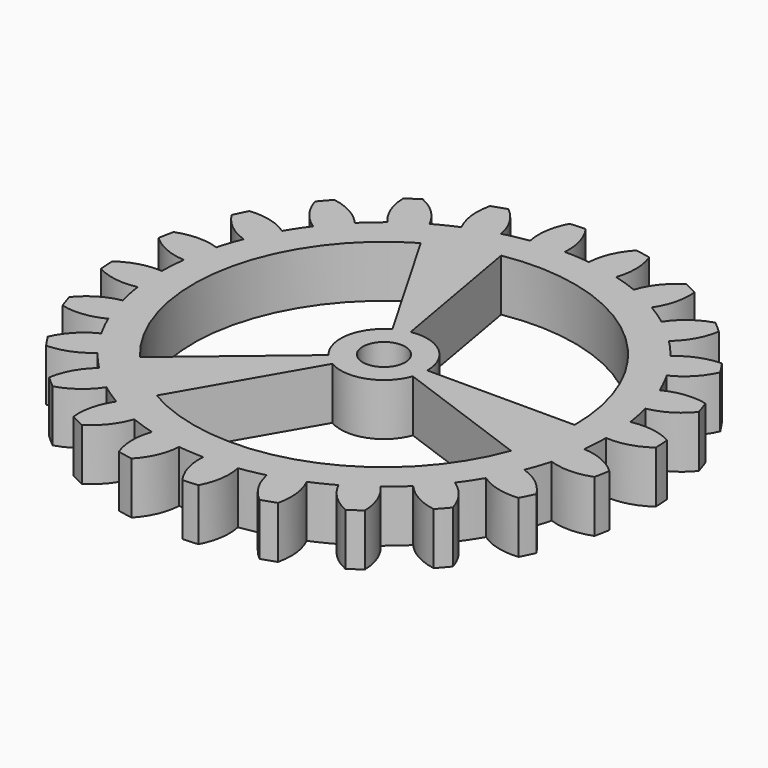
from build123d import *

# Parameters (mm, degrees)
F0_R     = 2.45
F1_DEPTH = 6
F3_DEPTH = 25


with BuildPart() as f1:
    # F0 (on Top) → F1 (new body)
    with BuildSketch(Plane.XY):
        with BuildLine():
            ThreePointArc((3.150149, 25.614713), (1.687904, 25.752436), (0.220192, 25.806753))
            ThreePointArc((0.220192, 25.806753), (-0.029862, 28.261847), (-1.112011, 30.479722))
            ThreePointArc((-1.112011, 30.479722), (-1.994795, 30.434697), (-2.875905, 30.36411))
            ThreePointArc((-2.875905, 30.36411), (-3.659305, 28.023961), (-3.586766, 25.557232))
            ThreePointArc((-3.586766, 25.557232), (-5.034831, 25.311805), (-6.46659, 24.984399))
            ThreePointArc((-6.46659, 24.984399), (-7.343549, 27.291119), (-8.962852, 29.153341))
            ThreePointArc((-8.962852, 29.153341), (-9.803904, 28.881369), (-10.636721, 28.585139))
            ThreePointArc((-10.636721, 28.585139), (-10.787752, 26.12197), (-10.079248, 23.758067))
            ThreePointArc((-10.079248, 23.758067), (-11.41445, 23.146216), (-12.712684, 22.4594))
            ThreePointArc((-12.712684, 22.4594), (-14.156785, 24.460546), (-16.20289, 25.840208))
            ThreePointArc((-16.20289, 25.840208), (-16.944892, 25.359823), (-17.672661, 24.858138))
            ThreePointArc((-17.672661, 24.858138), (-17.181031, 22.43981), (-15.884846, 20.339829))
            ThreePointArc((-15.884846, 20.339829), (-17.016194, 19.40325), (-18.092431, 18.403829))
            ThreePointArc((-18.092431, 18.403829), (-20.005259, 19.963028), (-22.338728, 20.766108))
            ThreePointArc((-22.338728, 20.766108), (-22.931114, 20.110047), (-23.50424, 19.437096))
            ThreePointArc((-23.50424, 19.437096), (-22.403452, 17.228414), (-20.607918, 15.535466))
            ThreePointArc((-20.607918, 15.535466), (-21.458312, 14.337986), (-22.239208, 13.094069))
            ThreePointArc((-22.239208, 13.094069), (-24.490408, 14.105062), (-26.952219, 14.276831))
            ThreePointArc((-26.952219, 14.276831), (-27.354619, 13.489805), (-27.734043, 12.691448))
            ThreePointArc((-27.734043, 12.691448), (-26.099114, 10.84293), (-23.926595, 9.672386))
            ThreePointArc((-23.926595, 9.672386), (-24.438081, 8.295611), (-24.870419, 6.891968))
            ThreePointArc((-24.870419, 6.891968), (-27.306577, 7.28586), (-29.72896, 6.814613))
            ThreePointArc((-29.72896, 6.814613), (-29.913951, 5.950255), (-30.073817, 5.080899))
            ThreePointArc((-30.073817, 5.080899), (-28.016165, 3.718518), (-25.614713, 3.150149))
            ThreePointArc((-25.614713, 3.150149), (-25.752436, 1.687904), (-25.806753, 0.220192))
            ThreePointArc((-25.806753, 0.220192), (-28.261847, -0.029862), (-30.479722, -1.112011))
            ThreePointArc((-30.479722, -1.112011), (-30.434697, -1.994795), (-30.36411, -2.875905))
            ThreePointArc((-30.36411, -2.875905), (-28.023961, -3.659305), (-25.557232, -3.586766))
            ThreePointArc((-25.557232, -3.586766), (-25.311805, -5.034831), (-24.984399, -6.46659))
            ThreePointArc((-24.984399, -6.46659), (-27.291119, -7.343549), (-29.153341, -8.962852))
            ThreePointArc((-29.153341, -8.962852), (-28.881369, -9.803904), (-28.585139, -10.636721))
            ThreePointArc((-28.585139, -10.636721), (-26.12197, -10.787752), (-23.758067, -10.079248))
            ThreePointArc((-23.758067, -10.079248), (-23.146216, -11.41445), (-22.4594, -12.712684))
            ThreePointArc((-22.4594, -12.712684), (-24.460546, -14.156785), (-25.840208, -16.20289))
            ThreePointArc((-25.840208, -16.20289), (-25.359823, -16.944892), (-24.858138, -17.672661))
            ThreePointArc((-24.858138, -17.672661), (-22.43981, -17.181031), (-20.339829, -15.884846))
            ThreePointArc((-20.339829, -15.884846), (-19.40325, -17.016194), (-18.403829, -18.092431))
            ThreePointArc((-18.403829, -18.092431), (-19.963028, -20.005259), (-20.766108, -22.338728))
            ThreePointArc((-20.766108, -22.338728), (-20.110047, -22.931114), (-19.437096, -23.50424))
            ThreePointArc((-19.437096, -23.50424), (-17.228414, -22.403452), (-15.535466, -20.607918))
            ThreePointArc((-15.535466, -20.607918), (-14.337986, -21.458312), (-13.094069, -22.239208))
            ThreePointArc((-13.094069, -22.239208), (-14.105062, -24.490408), (-14.276831, -26.952219))
            ThreePointArc((-14.276831, -26.952219), (-13.489805, -27.354619), (-12.691448, -27.734043))
            ThreePointArc((-12.691448, -27.734043), (-10.84293, -26.099114), (-9.672386, -23.926595))
            ThreePointArc((-9.672386, -23.926595), (-8.295611, -24.438081), (-6.891968, -24.870419))
            ThreePointArc((-6.891968, -24.870419), (-7.28586, -27.306577), (-6.814613, -29.72896))
            ThreePointArc((-6.814613, -29.72896), (-5.950255, -29.913951), (-5.080899, -30.073817))
            ThreePointArc((-5.080899, -30.073817), (-3.718518, -28.016165), (-3.150149, -25.614713))
            ThreePointArc((-3.150149, -25.614713), (-1.687904, -25.752436), (-0.220192, -25.806753))
            ThreePointArc((-0.220192, -25.806753), (0.029862, -28.261847), (1.112011, -30.479722))
            ThreePointArc((1.112011, -30.479722), (1.994795, -30.434697), (2.875905, -30.36411))
            ThreePointArc((2.875905, -30.36411), (3.659305, -28.023961), (3.586766, -25.557232))
            ThreePointArc((3.586766, -25.557232), (5.034831, -25.311805), (6.46659, -24.984399))
            ThreePointArc((6.46659, -24.984399), (7.343549, -27.291119), (8.962852, -29.153341))
            ThreePointArc((8.962852, -29.153341), (9.803904, -28.881369), (10.636721, -28.585139))
            ThreePointArc((10.636721, -28.585139), (10.787752, -26.12197), (10.079248, -23.758067))
            ThreePointArc((10.079248, -23.758067), (11.41445, -23.146216), (12.712684, -22.4594))
            ThreePointArc((12.712684, -22.4594), (14.156785, -24.460546), (16.20289, -25.840208))
            ThreePointArc((16.20289, -25.840208), (16.944892, -25.359823), (17.672661, -24.858138))
            ThreePointArc((17.672661, -24.858138), (17.181031, -22.43981), (15.884846, -20.339829))
            ThreePointArc((15.884846, -20.339829), (17.016194, -19.40325), (18.092431, -18.403829))
            ThreePointArc((18.092431, -18.403829), (20.005259, -19.963028), (22.338728, -20.766108))
            ThreePointArc((22.338728, -20.766108), (22.931114, -20.110047), (23.50424, -19.437096))
            ThreePointArc((23.50424, -19.437096), (22.403452, -17.228414), (20.607918, -15.535466))
            ThreePointArc((20.607918, -15.535466), (21.458312, -14.337986), (22.239208, -13.094069))
            ThreePointArc((22.239208, -13.094069), (24.490408, -14.105062), (26.952219, -14.276831))
            ThreePointArc((26.952219, -14.276831), (27.354619, -13.489805), (27.734043, -12.691448))
            ThreePointArc((27.734043, -12.691448), (26.099114, -10.84293), (23.926595, -9.672386))
            ThreePointArc((23.926595, -9.672386), (24.438081, -8.295611), (24.870419, -6.891968))
            ThreePointArc((24.870419, -6.891968), (27.306577, -7.28586), (29.72896, -6.814613))
            ThreePointArc((29.72896, -6.814613), (29.913951, -5.950255), (30.073817, -5.080899))
            ThreePointArc((30.073817, -5.080899), (28.016165, -3.718518), (25.614713, -3.150149))
            ThreePointArc((25.614713, -3.150149), (25.752436, -1.687904), (25.806753, -0.220192))
            ThreePointArc((25.806753, -0.220192), (28.261847, 0.029862), (30.479722, 1.112011))
            ThreePointArc((30.479722, 1.112011), (30.434697, 1.994795), (30.36411, 2.875905))
            ThreePointArc((30.36411, 2.875905), (28.023961, 3.659305), (25.557232, 3.586766))
            ThreePointArc((25.557232, 3.586766), (25.311805, 5.034831), (24.984399, 6.46659))
            ThreePointArc((24.984399, 6.46659), (27.291119, 7.343549), (29.153341, 8.962852))
            ThreePointArc((29.153341, 8.962852), (28.881369, 9.803904), (28.585139, 10.636721))
            ThreePointArc((28.585139, 10.636721), (26.12197, 10.787752), (23.758067, 10.079248))
            ThreePointArc((23.758067, 10.079248), (23.146216, 11.41445), (22.4594, 12.712684))
            ThreePointArc((22.4594, 12.712684), (24.460546, 14.156785), (25.840208, 16.20289))
            ThreePointArc((25.840208, 16.20289), (25.359823, 16.944892), (24.858138, 17.672661))
            ThreePointArc((24.858138, 17.672661), (22.43981, 17.181031), (20.339829, 15.884846))
            ThreePointArc((20.339829, 15.884846), (19.40325, 17.016194), (18.403829, 18.092431))
            ThreePointArc((18.403829, 18.092431), (19.963028, 20.005259), (20.766108, 22.338728))
            ThreePointArc((20.766108, 22.338728), (20.110047, 22.931114), (19.437096, 23.50424))
            ThreePointArc((19.437096, 23.50424), (17.228414, 22.403452), (15.535466, 20.607918))
            ThreePointArc((15.535466, 20.607918), (14.337986, 21.458312), (13.094069, 22.239208))
            ThreePointArc((13.094069, 22.239208), (14.105062, 24.490408), (14.276831, 26.952219))
            ThreePointArc((14.276831, 26.952219), (13.489805, 27.354619), (12.691448, 27.734043))
            ThreePointArc((12.691448, 27.734043), (10.84293, 26.099114), (9.672386, 23.926595))
            ThreePointArc((9.672386, 23.926595), (8.295611, 24.438081), (6.891968, 24.870419))
            ThreePointArc((6.891968, 24.870419), (7.28586, 27.306577), (6.814613, 29.72896))
            ThreePointArc((6.814613, 29.72896), (5.950255, 29.913951), (5.080899, 30.073817))
            ThreePointArc((5.080899, 30.073817), (3.718518, 28.016165), (3.150149, 25.614713))
        make_face()
        Circle(F0_R, mode=Mode.SUBTRACT)
    extrude(amount=F1_DEPTH)

    # F2 (on face) → F3 (cut)
    with BuildSketch(Plane.XY.offset(6)):
        with BuildLine():
            Line((20.673238, -7.524443), (4.698463, -1.710101))
            ThreePointArc((4.698463, -1.710101), (1.710101, -4.698463), (-2.5, -4.330127))
            Line((-2.5, -4.330127), (-11, -19.052559))
            ThreePointArc((-11, -19.052559), (7.524443, -20.673238), (20.673238, -7.524443))
        make_face()
        with BuildLine():
            ThreePointArc((-0.868241, 4.924039), (3.213938, 3.830222), (5, 0))
            Line((5, 0), (22, 0))
            ThreePointArc((22, 0), (14.141327, 16.852978), (-3.82026, 21.665771))
            Line((-3.82026, 21.665771), (-0.868241, 4.924039))
        make_face()
        with BuildLine():
            ThreePointArc((-3.830222, -3.213938), (-4.924039, 0.868241), (-2.5, 4.330127))
            Line((-2.5, 4.330127), (-11, 19.052559))
            ThreePointArc((-11, 19.052559), (-21.665771, 3.82026), (-16.852978, -14.141327))
            Line((-16.852978, -14.141327), (-3.830222, -3.213938))
        make_face()
    extrude(amount=-F3_DEPTH, mode=Mode.SUBTRACT)


solid = f1.part
